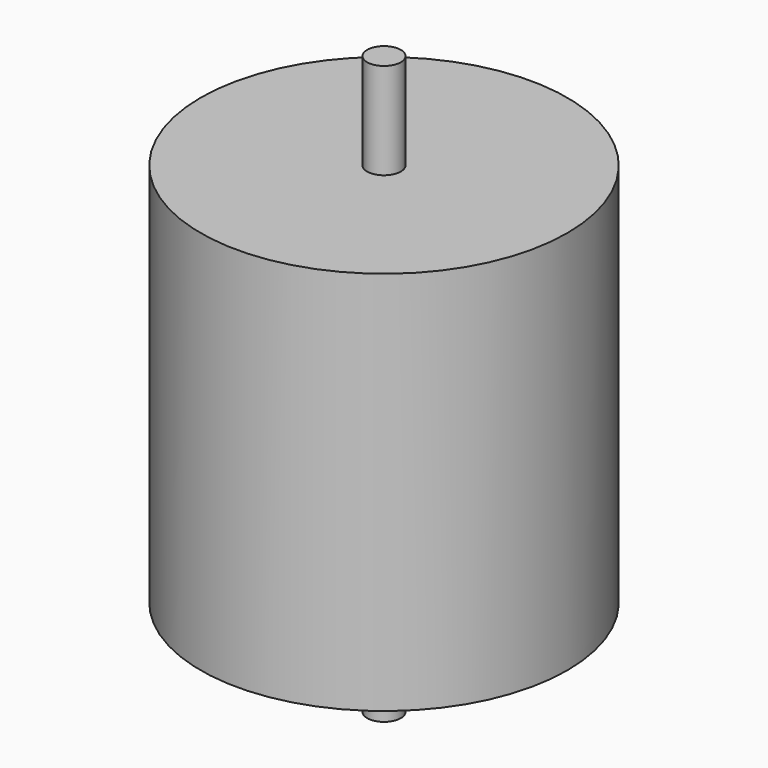
from build123d import *

# Parameters (mm, degrees)
F0_R          = 38.1
F1_DEPTH      = 80
F2_R          = 3.5
F3_DEPTH      = 100
F3_DEPTH_BACK = 20


with BuildPart() as f1:
    # F0 (on Top) → F1 (new body)
    with BuildSketch(Plane.XY):
        Circle(F0_R)
    extrude(amount=F1_DEPTH)


with BuildPart() as f3:
    # F2 (on Top) → F3 (new body, two sides)
    with BuildSketch(Plane.XY) as f3_sk:
        Circle(F2_R)
    extrude(amount=F3_DEPTH)
    extrude(f3_sk.sketch, amount=-F3_DEPTH_BACK)


solid = Compound([f1.part, f3.part])
